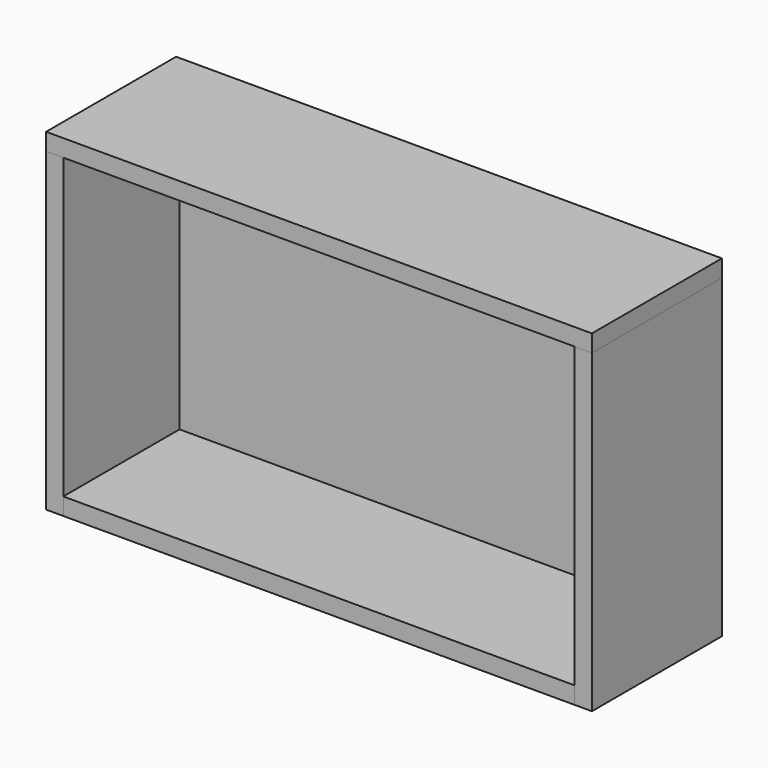
from build123d import *

# Parameters (mm, degrees)
SKETCH_W     = 535
SKETCH_H     = 312
PAD_DEPTH    = 18
SKETCH001_W  = 535
SKETCH001_H  = 170
PAD001_DEPTH = 18
SKETCH002_W  = 170
SKETCH002_H  = 330
PAD002_DEPTH = 18
SKETCH003_W  = 170
SKETCH003_H  = 330
PAD003_DEPTH = 18
SKETCH004_W  = 170
SKETCH004_H  = 571
PAD004_DEPTH = 18


with BuildPart() as backplate:
    # Sketch → Pad (new body)
    with BuildSketch(Plane.XZ):
        with Locations((-285.5, 174)):
            Rectangle(SKETCH_W, SKETCH_H)
    extrude(amount=PAD_DEPTH)


with BuildPart() as bottomplate:
    # Sketch001 → Pad001 (new body)
    with BuildSketch(Plane.XY):
        with Locations((-285.5, -85)):
            Rectangle(SKETCH001_W, SKETCH001_H)
    extrude(amount=PAD001_DEPTH)


with BuildPart() as rightplate:
    # Sketch002 → Pad002 (new body)
    with BuildSketch(Plane.YZ):
        with Locations((-85, 165)):
            Rectangle(SKETCH002_W, SKETCH002_H)
    extrude(amount=-PAD002_DEPTH)


with BuildPart() as leftplate:
    # Sketch003 (on Face1 of ShapeBinder002) → Pad003 (new body)
    with BuildSketch(Plane(origin=(-553, 0, 0), x_dir=(0, -1, 0), z_dir=(-1, 0, 0))):
        with Locations((85, 165)):
            Rectangle(SKETCH003_W, SKETCH003_H)
    extrude(amount=PAD003_DEPTH)


with BuildPart() as topplate:
    # Sketch004 (on Face1 of ShapeBinder003) → Pad004 (new body)
    with BuildSketch(Plane(origin=(0, 0, 330), x_dir=(0, -1, 0), z_dir=(0, 0, 1))):
        with Locations((85, -285.5)):
            Rectangle(SKETCH004_W, SKETCH004_H)
    extrude(amount=PAD004_DEPTH)


solid = Compound([backplate.part, bottomplate.part, rightplate.part, leftplate.part, topplate.part])
